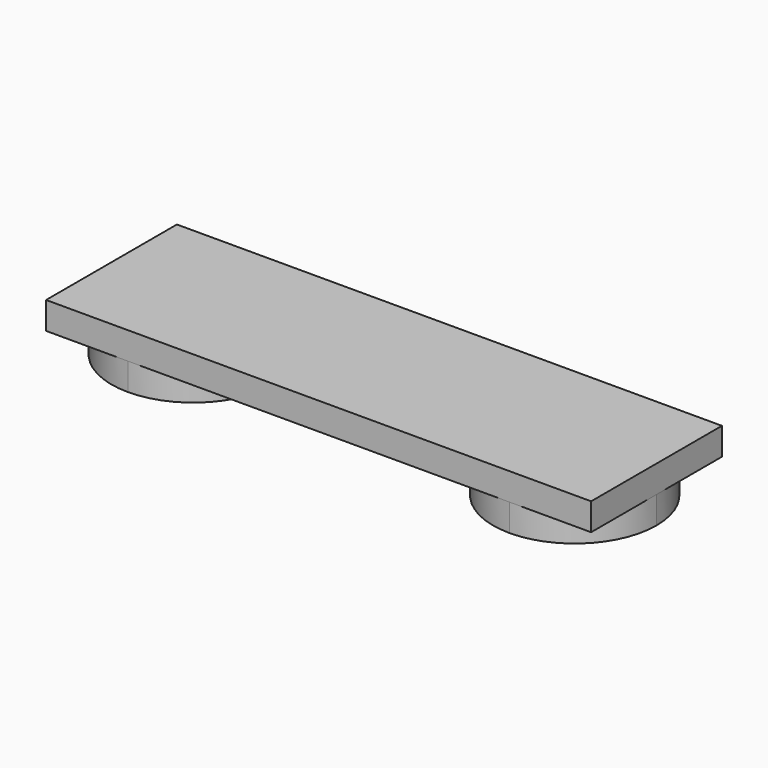
from build123d import *

# Parameters (mm, degrees)
F0_W     = 100
F0_H     = 30
F1_DEPTH = 5
F3_DEPTH = 5
F4_ANGLE = 180


with BuildPart() as f1:
    # F0 (on Top) → F1 (new body)
    with BuildSketch(Plane.XY):
        Rectangle(F0_W, F0_H)
    extrude(amount=F1_DEPTH)

    # F2 (on face) → F3 (join)
    with BuildSketch(Plane.XY.offset(5)):
        with BuildLine():
            ThreePointArc((35, -15), (45.606602, -10.606602), (50, 0))
            ThreePointArc((50, 0), (45.606602, 10.606602), (35, 15))
            ThreePointArc((35, 15), (20, 0), (35, -15))
        make_face()
        with BuildLine():
            ThreePointArc((-20, 0), (-24.393398, 10.606602), (-35, 15))
            ThreePointArc((-35, 15), (-45.606602, 10.606602), (-50, 0))
            ThreePointArc((-50, 0), (-45.606602, -10.606602), (-35, -15))
            ThreePointArc((-35, -15), (-24.393398, -10.606602), (-20, 0))
        make_face()
    extrude(amount=F3_DEPTH)


with BuildPart() as f1_1:
    # F4: moved
    add(f1.part.rotate(Axis((0, 15, 5), (-1, 0, 0)), F4_ANGLE))


solid = f1_1.part
